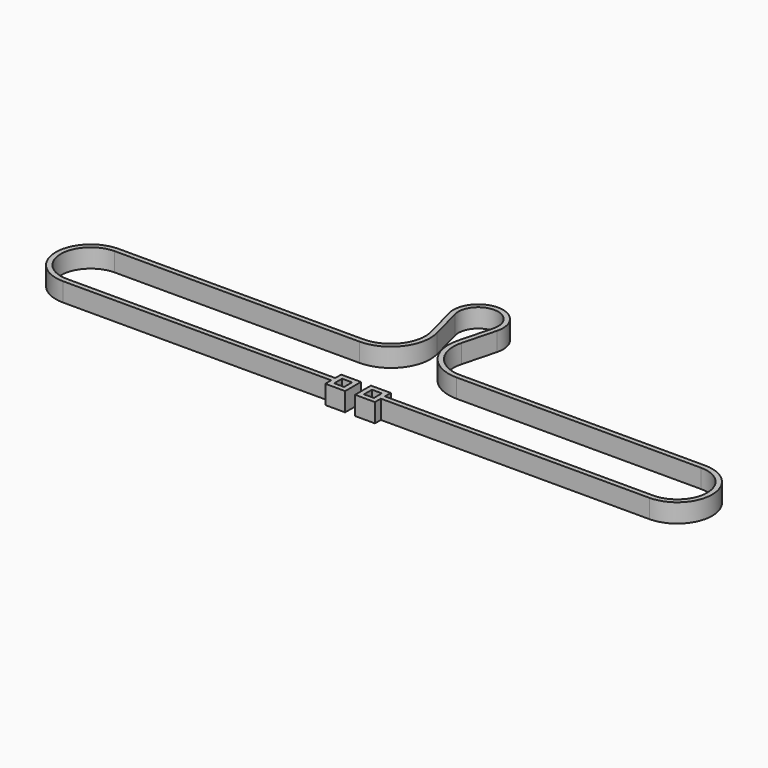
from build123d import *

# Parameters (mm, degrees)
F0_W     = 3.175
F0_H     = 3.175
F1_DEPTH = 6


with BuildPart() as f1:
    # F0 (on Top) → F1 (new body)
    with BuildSketch(Plane.XY):
        with BuildLine():
            ThreePointArc((-6.140454, -1.617815), (0, 6.35), (6.140454, -1.617815))
            Line((6.140454, -1.617815), (3.327874, -12.293027))
            ThreePointArc((3.327874, -12.293027), (5.529717, -23.18366), (15.499994, -28.087494))
            Line((15.499994, -28.087494), (93.787506, -28.087494))
            ThreePointArc((93.787506, -28.087494), (103.375003, -37.674991), (93.787506, -47.262488))
            Line((93.787506, -47.262488), (7.9375, -47.262488))
            Line((7.9375, -47.262488), (7.9375, -44.881238))
            Line((7.9375, -44.881238), (4.7625, -44.881238))
            Line((4.7625, -44.881238), (1.5875, -44.881238))
            Line((1.5875, -44.881238), (1.5875, -51.231238))
            Line((1.5875, -51.231238), (7.9375, -51.231238))
            Line((7.9375, -51.231238), (7.9375, -48.849988))
            Line((7.9375, -48.849988), (93.787506, -48.849988))
            ThreePointArc((93.787506, -48.849988), (104.962503, -37.674991), (93.787506, -26.499994))
            Line((93.787506, -26.499994), (15.499994, -26.499994))
            ThreePointArc((15.499994, -26.499994), (6.78714, -22.214618), (4.862988, -12.69748))
            Line((4.862988, -12.69748), (7.675567, -2.022269))
            ThreePointArc((7.675567, -2.022269), (0, 7.9375), (-7.675567, -2.022269))
            Line((-7.675567, -2.022269), (-4.862988, -12.69748))
            ThreePointArc((-4.862988, -12.69748), (-6.78714, -22.214618), (-15.499994, -26.499994))
            Line((-15.499994, -26.499994), (-93.787506, -26.499994))
            ThreePointArc((-93.787506, -26.499994), (-104.962503, -37.674991), (-93.787506, -48.849988))
            Line((-93.787506, -48.849988), (-7.9375, -48.849988))
            Line((-7.9375, -48.849988), (-7.9375, -51.231238))
            Line((-7.9375, -51.231238), (-1.5875, -51.231238))
            Line((-1.5875, -51.231238), (-1.5875, -44.881238))
            Line((-1.5875, -44.881238), (-7.9375, -44.881238))
            Line((-7.9375, -44.881238), (-7.9375, -47.262488))
            Line((-7.9375, -47.262488), (-93.787506, -47.262488))
            ThreePointArc((-93.787506, -47.262488), (-103.375003, -37.674991), (-93.787506, -28.087494))
            Line((-93.787506, -28.087494), (-15.499994, -28.087494))
            ThreePointArc((-15.499994, -28.087494), (-5.529717, -23.18366), (-3.327874, -12.293027))
            Line((-3.327874, -12.293027), (-6.140454, -1.617815))
        make_face()
        with Locations((-4.7625, -48.056238)):
            Rectangle(F0_W, F0_H, mode=Mode.SUBTRACT)
        Polygon((3.175, -46.468738), (4.7625, -46.468738), (6.35, -46.468738), (6.35, -49.643738), (3.175, -49.643738), align=None, mode=Mode.SUBTRACT)
    extrude(amount=F1_DEPTH)


solid = f1.part
